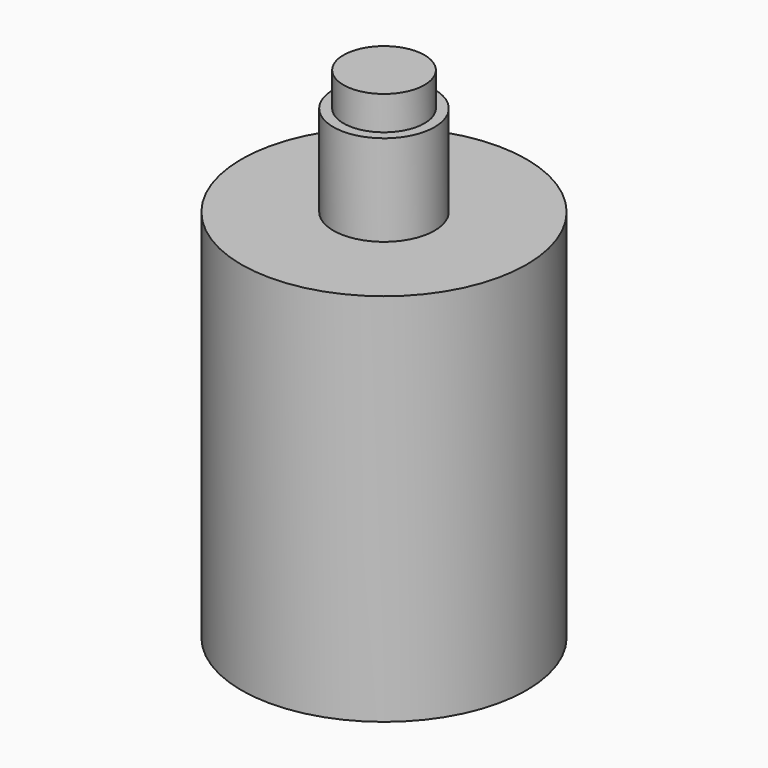
from build123d import *

# Parameters (mm, degrees)
F0_R     = 42.25
F1_DEPTH = 111
F2_T     = -1.5
F3_R     = 15
F4_DEPTH = 27
F5_R     = 12
F6_DEPTH = 10


with BuildPart() as f1:
    # F0 (on Top) → F1 (new body)
    with BuildSketch(Plane.XY):
        Circle(F0_R)
    extrude(amount=F1_DEPTH)

    # F2
    f2_openings = [f1.faces().sort_by_distance(p)[0] for p in [
        (0, 0, 0),
    ]]
    offset(amount=F2_T, openings=f2_openings)

    # F3 (on face) → F4 (join)
    with BuildSketch(Plane.XY.offset(111)):
        Circle(F3_R)
    extrude(amount=F4_DEPTH)

    # F5 (on face) → F6 (join)
    with BuildSketch(Plane.XY.offset(138)):
        Circle(F5_R)
    extrude(amount=F6_DEPTH)


solid = f1.part
